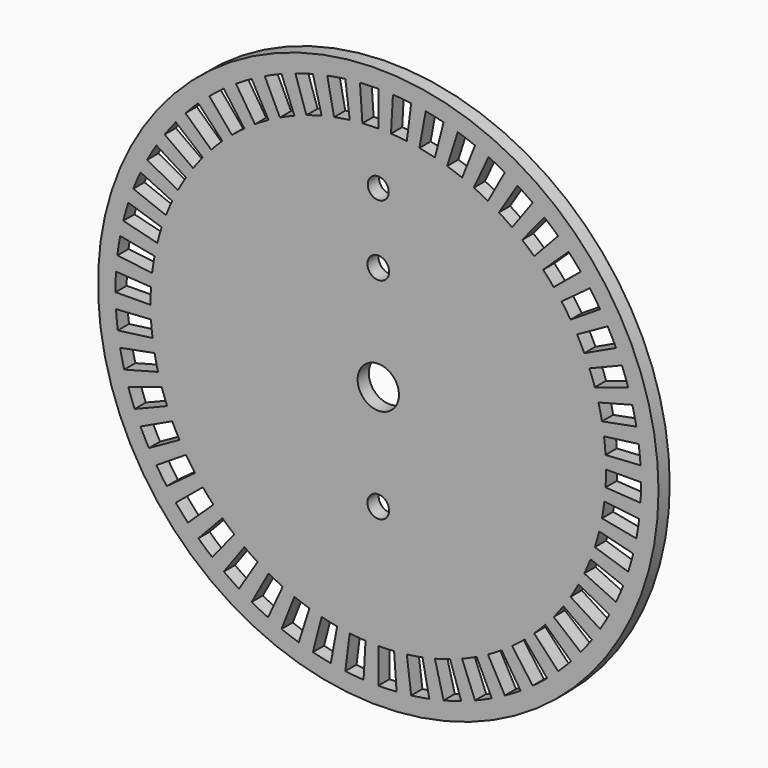
from build123d import *

# Parameters (mm, degrees)
F0_R     = 40
F1_DEPTH = 1
F2_R     = 2.95
F2_R_2   = 1.5
F2_R_3   = 1.55
F3_DEPTH = 6
F5_DEPTH = 12.5


with BuildPart() as f1:
    # F0 (on Front) → F1 (new body, symmetric)
    with BuildSketch(Plane.XZ):
        Circle(F0_R)
    extrude(amount=F1_DEPTH, both=True)

    # F2 (on Front) → F3 (cut, symmetric)
    with BuildSketch(Plane.XZ):
        Circle(F2_R)
        with Locations((0, 25)):
            Circle(F2_R_2)
        with Locations((0, 15)):
            Circle(F2_R_3)
        with Locations((0, -15)):
            Circle(F2_R_3)
    extrude(amount=F3_DEPTH, both=True, mode=Mode.SUBTRACT)

    # F4 (on Front) → F5 (cut, symmetric)
    with BuildSketch(Plane.XZ):
        with BuildLine():
            ThreePointArc((-2.26369, 32.421069), (-1.132533, 32.480261), (0, 32.5))
            Line((0, 32.5), (0, 37.5))
            ThreePointArc((0, 37.5), (-1.306769, 37.477224), (-2.61195, 37.408926))
            Line((-2.61195, 37.408926), (-2.26369, 32.421069))
        make_face()
        with BuildLine():
            Line((-7.279936, 36.786581), (-6.309278, 31.881703))
            ThreePointArc((-6.309278, 31.881703), (-5.194459, 32.082201), (-4.07333, 32.243728))
            Line((-4.07333, 32.243728), (-4.699996, 37.204301))
            ThreePointArc((-4.699996, 37.204301), (-5.993606, 37.017924), (-7.279936, 36.786581))
        make_face()
        with BuildLine():
            Line((-11.833113, 35.58409), (-10.255364, 30.839544))
            ThreePointArc((-10.255364, 30.839544), (-9.174465, 31.178185), (-8.082421, 31.478953))
            Line((-8.082421, 31.478953), (-9.325871, 36.321869))
            ThreePointArc((-9.325871, 36.321869), (-10.585921, 35.974828), (-11.833113, 35.58409))
        make_face()
        with BuildLine():
            Line((-16.199674, 33.820416), (-14.039717, 29.311028))
            ThreePointArc((-14.039717, 29.311028), (-13.009784, 29.78247), (-11.964048, 30.217736))
            Line((-11.964048, 30.217736), (-13.804671, 34.866618))
            ThreePointArc((-13.804671, 34.866618), (-15.011289, 34.364388), (-16.199674, 33.820416))
        make_face()
        with BuildLine():
            Line((-20.310757, 31.523375), (-17.602656, 27.320258))
            ThreePointArc((-17.602656, 27.320258), (-16.639931, 27.917068), (-15.656994, 28.479967))
            Line((-15.656994, 28.479967), (-18.065763, 32.861501))
            ThreePointArc((-18.065763, 32.861501), (-19.199921, 32.212001), (-20.310757, 31.523375))
        make_face()
        with BuildLine():
            Line((-24.101527, 28.729191), (-20.88799, 24.898632))
            ThreePointArc((-20.88799, 24.898632), (-20.007657, 25.611397), (-19.103021, 26.293052))
            Line((-19.103021, 26.293052), (-22.041947, 30.338137))
            ThreePointArc((-22.041947, 30.338137), (-23.085758, 29.551612), (-24.101527, 28.729191))
        make_face()
        with BuildLine():
            Line((-27.512202, 25.48193), (-23.843908, 22.084339))
            ThreePointArc((-23.843908, 22.084339), (-23.05985, 22.901819), (-22.247781, 23.69148))
            Line((-22.247781, 23.69148), (-25.670516, 27.336324))
            ThreePointArc((-25.670516, 27.336324), (-26.607519, 26.425176), (-27.512202, 25.48193))
        make_face()
        with BuildLine():
            Line((-30.488992, 21.832804), (-26.423793, 18.921764))
            ThreePointArc((-26.423793, 18.921764), (-25.748375, 19.831066), (-25.04168, 20.71628))
            Line((-25.04168, 20.71628), (-28.894247, 23.9034))
            ThreePointArc((-28.894247, 23.9034), (-29.709664, 22.881999), (-30.488992, 21.832804))
        make_face()
        with BuildLine():
            Line((-32.984954, 17.839362), (-28.58696, 15.46078))
            ThreePointArc((-28.58696, 15.46078), (-28.030833, 16.447565), (-27.440658, 17.414371))
            Line((-27.440658, 17.414371), (-31.662297, 20.093505))
            ThreePointArc((-31.662297, 20.093505), (-32.343269, 18.97796), (-32.984954, 17.839362))
        make_face()
        with BuildLine():
            Line((-34.960722, 13.564583), (-30.299293, 11.755972))
            ThreePointArc((-30.299293, 11.755972), (-29.871228, 12.804676), (-29.406879, 13.837827))
            Line((-29.406879, 13.837827), (-33.931014, 15.966723))
            ThreePointArc((-33.931014, 15.966723), (-34.466802, 14.774626), (-34.960722, 13.564583))
        make_face()
        with BuildLine():
            Line((-36.38514, 9.075881), (-31.533788, 7.865764))
            ThreePointArc((-31.533788, 7.865764), (-31.240536, 8.95985), (-30.909337, 10.043052))
            Line((-30.909337, 10.043052), (-35.664619, 11.588137))
            ThreePointArc((-35.664619, 11.588137), (-36.046772, 10.338288), (-36.38514, 9.075881))
        make_face()
        with BuildLine():
            Line((-37.235741, 4.444048), (-32.270976, 3.851508))
            ThreePointArc((-32.270976, 3.851508), (-32.117162, 4.973721), (-31.924336, 6.089893))
            Line((-31.924336, 6.089893), (-36.835772, 7.026799))
            ThreePointArc((-36.835772, 7.026799), (-37.058264, 5.738909), (-37.235741, 4.444048))
        make_face()
        with BuildLine():
            Line((-37.499113, -0.25787), (-32.499232, -0.223488))
            ThreePointArc((-32.499232, -0.223488), (-32.487281, 0.909154), (-32.435869, 2.040692))
            Line((-32.435869, 2.040692), (-37.426002, 2.354644))
            ThreePointArc((-37.426002, 2.354644), (-37.485324, 1.049024), (-37.499113, -0.25787))
        make_face()
        with BuildLine():
            Line((-37.171102, -4.955722), (-32.214955, -4.294959))
            ThreePointArc((-32.214955, -4.294959), (-32.345057, -3.169751), (-32.435869, -2.040692))
            Line((-32.435869, -2.040692), (-37.426002, -2.354644))
            ThreePointArc((-37.426002, -2.354644), (-37.321219, -3.657405), (-37.171102, -4.955722))
        make_face()
        with BuildLine():
            Line((-36.25688, -9.575419), (-31.422629, -8.298697))
            ThreePointArc((-31.422629, -8.298697), (-31.692731, -7.198667), (-31.924336, -6.089893))
            Line((-31.924336, -6.089893), (-36.835772, -7.026799))
            ThreePointArc((-36.835772, -7.026799), (-36.568536, -8.306154), (-36.25688, -9.575419))
        make_face()
        with BuildLine():
            Line((-34.770865, -14.044106), (-30.13475, -12.171559))
            ThreePointArc((-30.13475, -12.171559), (-30.540592, -11.114056), (-30.909337, -10.043052))
            Line((-30.909337, -10.043052), (-35.664619, -11.588137))
            ThreePointArc((-35.664619, -11.588137), (-35.239145, -12.82391), (-34.770865, -14.044106))
        make_face()
        with BuildLine():
            Line((-32.736494, -18.291309), (-28.371628, -15.852468))
            ThreePointArc((-28.371628, -15.852468), (-28.90681, -14.854169), (-29.406879, -13.837827))
            Line((-29.406879, -13.837827), (-33.931014, -15.966723))
            ThreePointArc((-33.931014, -15.966723), (-33.354011, -17.139426), (-32.736494, -18.291309))
        make_face()
        with BuildLine():
            Line((-30.185848, -22.250047), (-26.161068, -19.283374))
            ThreePointArc((-26.161068, -19.283374), (-26.81715, -18.360023), (-27.440658, -17.414371))
            Line((-27.440658, -17.414371), (-31.662297, -20.093505))
            ThreePointArc((-31.662297, -20.093505), (-30.942865, -21.184642), (-30.185848, -22.250047))
        make_face()
        with BuildLine():
            Line((-27.159153, -25.857889), (-23.537932, -22.41017))
            ThreePointArc((-23.537932, -22.41017), (-24.304568, -21.576329), (-25.04168, -20.71628))
            Line((-25.04168, -20.71628), (-28.894247, -23.9034))
            ThreePointArc((-28.894247, -23.9034), (-28.043732, -24.895765), (-27.159153, -25.857889))
        make_face()
        with BuildLine():
            Line((-23.704142, -29.057936), (-20.54359, -25.183545))
            ThreePointArc((-20.54359, -25.183545), (-21.408688, -24.452364), (-22.247781, -23.69148))
            Line((-22.247781, -23.69148), (-25.670516, -27.336324))
            ThreePointArc((-25.670516, -27.336324), (-24.702332, -28.214266), (-23.704142, -29.057936))
        make_face()
        with BuildLine():
            Line((-19.875303, -31.799722), (-17.225262, -27.559759))
            ThreePointArc((-17.225262, -27.559759), (-18.17518, -26.942769), (-19.103021, -26.293052))
            Line((-19.103021, -26.293052), (-22.041947, -30.338137))
            ThreePointArc((-22.041947, -30.338137), (-20.971362, -31.087811), (-19.875303, -31.799722))
        make_face()
        with BuildLine():
            Line((-15.733018, -34.040008), (-13.635282, -29.50134))
            ThreePointArc((-13.635282, -29.50134), (-14.655039, -29.008272), (-15.656994, -28.479967))
            Line((-15.656994, -28.479967), (-18.065763, -32.861501))
            ThreePointArc((-18.065763, -32.861501), (-16.90966, -33.471083), (-15.733018, -34.040008))
        make_face()
        with BuildLine():
            Line((-11.342614, -35.743462), (-9.830265, -30.977667))
            ThreePointArc((-9.830265, -30.977667), (-10.903779, -30.616296), (-11.964048, -30.217736))
            Line((-11.964048, -30.217736), (-13.804671, -34.866618))
            ThreePointArc((-13.804671, -34.866618), (-12.581284, -35.326496), (-11.342614, -35.743462))
        make_face()
        with BuildLine():
            Line((-6.77333, -36.883221), (-5.87022, -31.965458))
            ThreePointArc((-5.87022, -31.965458), (-6.98056, -31.741484), (-8.082421, -31.478953))
            Line((-8.082421, -31.478953), (-9.325871, -36.321869))
            ThreePointArc((-9.325871, -36.321869), (-8.054492, -36.624789), (-6.77333, -36.883221))
        make_face()
        with BuildLine():
            Line((-2.097227, -37.441309), (-1.817597, -32.449135))
            ThreePointArc((-1.817597, -32.449135), (-2.947254, -32.366089), (-4.07333, -32.243728))
            Line((-4.07333, -32.243728), (-4.699996, -37.204301))
            ThreePointArc((-4.699996, -37.204301), (-3.400677, -37.345487), (-2.097227, -37.441309))
        make_face()
        with BuildLine():
            Line((2.61195, -37.408926), (2.26369, -32.421069))
            ThreePointArc((2.26369, -32.421069), (1.132533, -32.480261), (0, -32.5))
            Line((0, -32.5), (0, -37.5))
            ThreePointArc((0, -37.5), (1.306769, -37.477224), (2.61195, -37.408926))
        make_face()
        with BuildLine():
            Line((7.279936, -36.786581), (6.309278, -31.881703))
            ThreePointArc((6.309278, -31.881703), (5.194459, -32.082201), (4.07333, -32.243728))
            Line((4.07333, -32.243728), (4.699996, -37.204301))
            ThreePointArc((4.699996, -37.204301), (5.993606, -37.017924), (7.279936, -36.786581))
        make_face()
        with BuildLine():
            Line((11.833113, -35.58409), (10.255364, -30.839544))
            ThreePointArc((10.255364, -30.839544), (9.174465, -31.178185), (8.082421, -31.478953))
            Line((8.082421, -31.478953), (9.325871, -36.321869))
            ThreePointArc((9.325871, -36.321869), (10.585921, -35.974828), (11.833113, -35.58409))
        make_face()
        with BuildLine():
            Line((16.199674, -33.820416), (14.039717, -29.311028))
            ThreePointArc((14.039717, -29.311028), (13.009784, -29.78247), (11.964048, -30.217736))
            Line((11.964048, -30.217736), (13.804671, -34.866618))
            ThreePointArc((13.804671, -34.866618), (15.011289, -34.364388), (16.199674, -33.820416))
        make_face()
        with BuildLine():
            Line((20.310757, -31.523375), (17.602656, -27.320258))
            ThreePointArc((17.602656, -27.320258), (16.639931, -27.917068), (15.656994, -28.479967))
            Line((15.656994, -28.479967), (18.065763, -32.861501))
            ThreePointArc((18.065763, -32.861501), (19.199921, -32.212001), (20.310757, -31.523375))
        make_face()
        with BuildLine():
            Line((24.101527, -28.729191), (20.88799, -24.898632))
            ThreePointArc((20.88799, -24.898632), (20.007657, -25.611397), (19.103021, -26.293052))
            Line((19.103021, -26.293052), (22.041947, -30.338137))
            ThreePointArc((22.041947, -30.338137), (23.085758, -29.551612), (24.101527, -28.729191))
        make_face()
        with BuildLine():
            Line((27.512202, -25.48193), (23.843908, -22.084339))
            ThreePointArc((23.843908, -22.084339), (23.05985, -22.901819), (22.247781, -23.69148))
            Line((22.247781, -23.69148), (25.670516, -27.336324))
            ThreePointArc((25.670516, -27.336324), (26.607519, -26.425176), (27.512202, -25.48193))
        make_face()
        with BuildLine():
            Line((30.488992, -21.832804), (26.423793, -18.921764))
            ThreePointArc((26.423793, -18.921764), (25.748375, -19.831066), (25.04168, -20.71628))
            Line((25.04168, -20.71628), (28.894247, -23.9034))
            ThreePointArc((28.894247, -23.9034), (29.709664, -22.881999), (30.488992, -21.832804))
        make_face()
        with BuildLine():
            Line((32.984954, -17.839362), (28.58696, -15.46078))
            ThreePointArc((28.58696, -15.46078), (28.030833, -16.447565), (27.440658, -17.414371))
            Line((27.440658, -17.414371), (31.662297, -20.093505))
            ThreePointArc((31.662297, -20.093505), (32.343269, -18.97796), (32.984954, -17.839362))
        make_face()
        with BuildLine():
            Line((34.960722, -13.564583), (30.299293, -11.755972))
            ThreePointArc((30.299293, -11.755972), (29.871228, -12.804676), (29.406879, -13.837827))
            Line((29.406879, -13.837827), (33.931014, -15.966723))
            ThreePointArc((33.931014, -15.966723), (34.466802, -14.774626), (34.960722, -13.564583))
        make_face()
        with BuildLine():
            Line((36.38514, -9.075881), (31.533788, -7.865764))
            ThreePointArc((31.533788, -7.865764), (31.240536, -8.95985), (30.909337, -10.043052))
            Line((30.909337, -10.043052), (35.664619, -11.588137))
            ThreePointArc((35.664619, -11.588137), (36.046772, -10.338288), (36.38514, -9.075881))
        make_face()
        with BuildLine():
            Line((37.235741, -4.444048), (32.270976, -3.851508))
            ThreePointArc((32.270976, -3.851508), (32.117162, -4.973721), (31.924336, -6.089893))
            Line((31.924336, -6.089893), (36.835772, -7.026799))
            ThreePointArc((36.835772, -7.026799), (37.058264, -5.738909), (37.235741, -4.444048))
        make_face()
        with BuildLine():
            Line((37.499113, 0.25787), (32.499232, 0.223488))
            ThreePointArc((32.499232, 0.223488), (32.487281, -0.909154), (32.435869, -2.040692))
            Line((32.435869, -2.040692), (37.426002, -2.354644))
            ThreePointArc((37.426002, -2.354644), (37.485324, -1.049024), (37.499113, 0.25787))
        make_face()
        with BuildLine():
            Line((37.171102, 4.955722), (32.214955, 4.294959))
            ThreePointArc((32.214955, 4.294959), (32.345057, 3.169751), (32.435869, 2.040692))
            Line((32.435869, 2.040692), (37.426002, 2.354644))
            ThreePointArc((37.426002, 2.354644), (37.321219, 3.657405), (37.171102, 4.955722))
        make_face()
        with BuildLine():
            Line((36.25688, 9.575419), (31.422629, 8.298697))
            ThreePointArc((31.422629, 8.298697), (31.692731, 7.198667), (31.924336, 6.089893))
            Line((31.924336, 6.089893), (36.835772, 7.026799))
            ThreePointArc((36.835772, 7.026799), (36.568536, 8.306154), (36.25688, 9.575419))
        make_face()
        with BuildLine():
            Line((34.770865, 14.044106), (30.13475, 12.171559))
            ThreePointArc((30.13475, 12.171559), (30.540592, 11.114056), (30.909337, 10.043052))
            Line((30.909337, 10.043052), (35.664619, 11.588137))
            ThreePointArc((35.664619, 11.588137), (35.239145, 12.82391), (34.770865, 14.044106))
        make_face()
        with BuildLine():
            Line((32.736494, 18.291309), (28.371628, 15.852468))
            ThreePointArc((28.371628, 15.852468), (28.90681, 14.854169), (29.406879, 13.837827))
            Line((29.406879, 13.837827), (33.931014, 15.966723))
            ThreePointArc((33.931014, 15.966723), (33.354011, 17.139426), (32.736494, 18.291309))
        make_face()
        with BuildLine():
            Line((30.185848, 22.250047), (26.161068, 19.283374))
            ThreePointArc((26.161068, 19.283374), (26.81715, 18.360023), (27.440658, 17.414371))
            Line((27.440658, 17.414371), (31.662297, 20.093505))
            ThreePointArc((31.662297, 20.093505), (30.942865, 21.184642), (30.185848, 22.250047))
        make_face()
        with BuildLine():
            Line((27.159153, 25.857889), (23.537932, 22.41017))
            ThreePointArc((23.537932, 22.41017), (24.304568, 21.576329), (25.04168, 20.71628))
            Line((25.04168, 20.71628), (28.894247, 23.9034))
            ThreePointArc((28.894247, 23.9034), (28.043732, 24.895765), (27.159153, 25.857889))
        make_face()
        with BuildLine():
            Line((23.704142, 29.057936), (20.54359, 25.183545))
            ThreePointArc((20.54359, 25.183545), (21.408688, 24.452364), (22.247781, 23.69148))
            Line((22.247781, 23.69148), (25.670516, 27.336324))
            ThreePointArc((25.670516, 27.336324), (24.702332, 28.214266), (23.704142, 29.057936))
        make_face()
        with BuildLine():
            Line((19.875303, 31.799722), (17.225262, 27.559759))
            ThreePointArc((17.225262, 27.559759), (18.17518, 26.942769), (19.103021, 26.293052))
            Line((19.103021, 26.293052), (22.041947, 30.338137))
            ThreePointArc((22.041947, 30.338137), (20.971362, 31.087811), (19.875303, 31.799722))
        make_face()
        with BuildLine():
            Line((15.733018, 34.040008), (13.635282, 29.50134))
            ThreePointArc((13.635282, 29.50134), (14.655039, 29.008272), (15.656994, 28.479967))
            Line((15.656994, 28.479967), (18.065763, 32.861501))
            ThreePointArc((18.065763, 32.861501), (16.90966, 33.471083), (15.733018, 34.040008))
        make_face()
        with BuildLine():
            Line((11.342614, 35.743462), (9.830265, 30.977667))
            ThreePointArc((9.830265, 30.977667), (10.903779, 30.616296), (11.964048, 30.217736))
            Line((11.964048, 30.217736), (13.804671, 34.866618))
            ThreePointArc((13.804671, 34.866618), (12.581284, 35.326496), (11.342614, 35.743462))
        make_face()
        with BuildLine():
            Line((6.77333, 36.883221), (5.87022, 31.965458))
            ThreePointArc((5.87022, 31.965458), (6.98056, 31.741484), (8.082421, 31.478953))
            Line((8.082421, 31.478953), (9.325871, 36.321869))
            ThreePointArc((9.325871, 36.321869), (8.054492, 36.624789), (6.77333, 36.883221))
        make_face()
        with BuildLine():
            Line((2.097227, 37.441309), (1.817597, 32.449135))
            ThreePointArc((1.817597, 32.449135), (2.947254, 32.366089), (4.07333, 32.243728))
            Line((4.07333, 32.243728), (4.699996, 37.204301))
            ThreePointArc((4.699996, 37.204301), (3.400677, 37.345487), (2.097227, 37.441309))
        make_face()
    extrude(amount=F5_DEPTH, both=True, mode=Mode.SUBTRACT)


solid = f1.part
